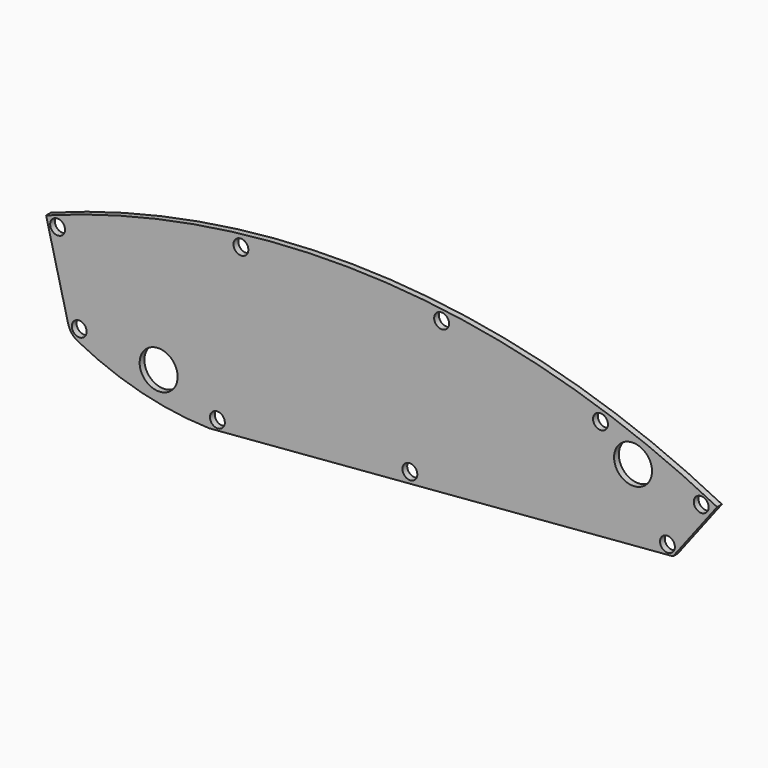
from build123d import *

# Parameters (mm, degrees)
F0_R     = 2.4892
F0_R_2   = 6.35
F1_DEPTH = 2


with BuildPart() as f1:
    # F0 (on Front) → F1 (new body)
    with BuildSketch(Plane.XZ):
        with BuildLine():
            ThreePointArc((240.299379, -8.301958), (129.489632, 21.766798), (15.969375, 4.559785))
            Line((15.969375, 4.559785), (23.344395, -24.940294))
            ThreePointArc((23.344395, -24.940294), (24.520795, -27.334935), (26.577033, -29.034967))
            ThreePointArc((26.577033, -29.034967), (47.896771, -37.200551), (70.506804, -40.361933))
            Line((70.506804, -40.361933), (225.558666, -27.614349))
            Line((225.558666, -27.614349), (240.299379, -8.301958))
        make_face()
        with Locations((27.046501, -25.247754)):
            Circle(F0_R, mode=Mode.SUBTRACT)
        with Locations((53.594086, -28.642762)):
            Circle(F0_R_2, mode=Mode.SUBTRACT)
        with Locations((73.240164, -36.992866)):
            Circle(F0_R, mode=Mode.SUBTRACT)
        with Locations((137.584809, -31.326638)):
            Circle(F0_R, mode=Mode.SUBTRACT)
        with Locations((223.688227, -24.670543)):
            Circle(F0_R, mode=Mode.SUBTRACT)
        with Locations((234.969923, -9.30631)):
            Circle(F0_R, mode=Mode.SUBTRACT)
        with Locations((19.813377, 2.399489)):
            Circle(F0_R, mode=Mode.SUBTRACT)
        with Locations((81.108333, 16.425082)):
            Circle(F0_R, mode=Mode.SUBTRACT)
        with Locations((212.189019, -4.873136)):
            Circle(F0_R_2, mode=Mode.SUBTRACT)
        with Locations((201.313823, 4.130458)):
            Circle(F0_R, mode=Mode.SUBTRACT)
        with Locations((148.186535, 16.526964)):
            Circle(F0_R, mode=Mode.SUBTRACT)
    extrude(amount=F1_DEPTH)


solid = f1.part
